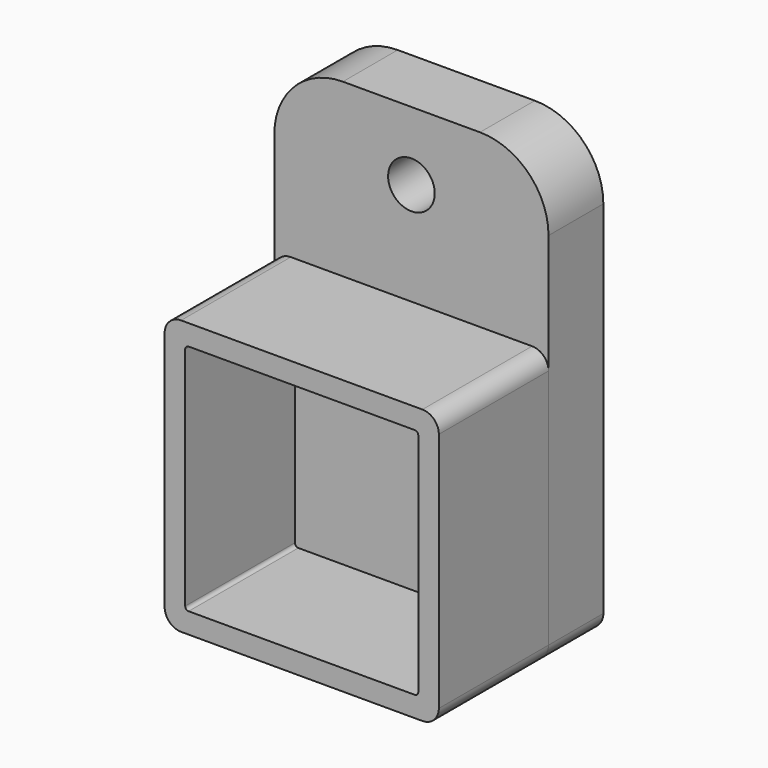
from build123d import *

# Parameters (mm, degrees)
F1_DEPTH = 10
F2_W     = 40
F2_H     = 40
F3_DEPTH = 20
F4_W     = 34
F4_H     = 34
F5_DEPTH = 20
F6_R     = 2.4
F7_R     = 0.5
F8_R     = 2.4
F10_D    = 6.8


with BuildPart() as f1:
    # F0 (on Front) → F1 (new body)
    with BuildSketch(Plane.XZ):
        with BuildLine():
            Line((10, 32.5), (-10, 32.5))
            ThreePointArc((-10, 32.5), (-17.0710678119, 29.5710678119), (-20, 22.5))
            Line((-20, 22.5), (-20, -32.5))
            Line((-20, -32.5), (20, -32.5))
            Line((20, -32.5), (20, 22.5))
            ThreePointArc((20, 22.5), (17.0710678119, 29.5710678119), (10, 32.5))
        make_face()
    extrude(amount=F1_DEPTH)

    # F8
    f8_edges = [f1.edges().sort_by_distance(p)[0] for p in [
        (-20, -5, -32.5),
        (20, -5, -32.5),
    ]]
    fillet(f8_edges, radius=F8_R)

    # F10 (through all)
    with Locations(Plane.XZ.offset(10)):
        with Locations((0, 22.5)):
            Hole(F10_D / 2)


with BuildPart() as f3:
    # F2 (on face) → F3 (new body)
    with BuildSketch(Plane.XZ.offset(10)):
        with Locations((0, -12.5)):
            Rectangle(F2_W, F2_H)
    extrude(amount=F3_DEPTH)

    # F4 (on face) → F5 (cut, through all)
    with BuildSketch(Plane.XZ.offset(30)):
        with Locations((0, -12.5)):
            Rectangle(F4_W, F4_H)
    extrude(amount=-F5_DEPTH, mode=Mode.SUBTRACT)

    # F6
    f6_edges = [f3.edges().sort_by_distance(p)[0] for p in [
        (-20, -20, 7.5),
        (20, -20, 7.5),
        (-20, -20, -32.5),
        (20, -20, -32.5),
    ]]
    fillet(f6_edges, radius=F6_R)

    # F7
    f7_edges = [f3.edges().sort_by_distance(p)[0] for p in [
        (-17, -20, -29.5),
        (-17, -20, 4.5),
        (17, -20, 4.5),
        (17, -20, -29.5),
    ]]
    fillet(f7_edges, radius=F7_R)


solid = Compound([f1.part, f3.part])
